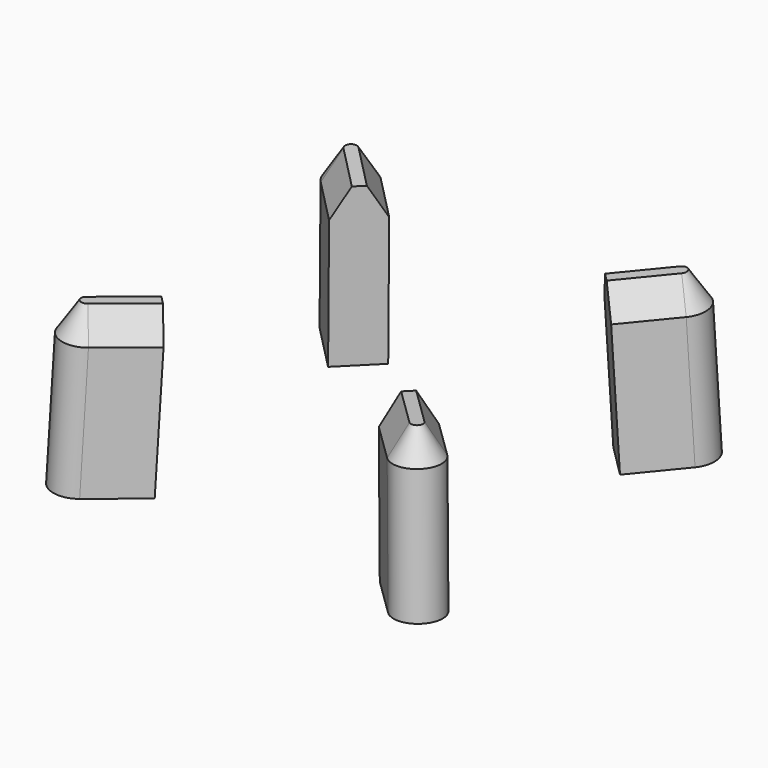
from build123d import *

# Parameters (mm, degrees)
CYLINDER016_R          = 76
CYLINDER016_DEPTH      = 900
CYLINDER015_W          = 160
CYLINDER015_H          = 1100
CYLINDER015_ANGLE      = 180
BOX003_W               = 400
BOX003_H               = 320
BOX003_DEPTH           = 1100
CHAMFER005_SIZE2       = 120
CHAMFER005_SIZE        = 200
CUT001_PITCH_ANGLE     = 3
CUT001_PLACEMENT_ANGLE = -135
ARRAY003003_COUNT      = 4


with BuildPart() as cylinder016:
    # Cylinder016 → Cylinder016 (new body)
    with BuildSketch(Plane.XY):
        Circle(CYLINDER016_R)
    extrude(amount=CYLINDER016_DEPTH)


with BuildPart() as cylinder015:
    # Cylinder015 → Cylinder015 (revolve)
    with BuildSketch(Plane.YZ):
        with Locations((80, 550)):
            Rectangle(CYLINDER015_W, CYLINDER015_H)
    revolve(axis=Axis((0, 0, 0), (0, 0, 1)), revolution_arc=CYLINDER015_ANGLE)


with BuildPart() as array003003:
    # Box003 → Box003 (new body)
    with BuildSketch(Plane(origin=(0, -160, 0), x_dir=(1, 0, 0), z_dir=(0, 0, 1))):
        with Locations((200, 160)):
            Rectangle(BOX003_W, BOX003_H)
    extrude(amount=BOX003_DEPTH)

    # Fusion003003004001004: union Cylinder015
    add(cylinder015.part)

    # Chamfer005
    chamfer005_edges = [array003003.edges().sort_by_distance(p)[0] for p in [
        (200, -160, 1100),
    ]]
    chamfer005_side = array003003.faces().sort_by_distance((200, -160, 550))[0]
    chamfer(chamfer005_edges, length=CHAMFER005_SIZE, length2=CHAMFER005_SIZE2, reference=chamfer005_side)

    # Cut001: cut Cylinder016
    add(cylinder016.part, mode=Mode.SUBTRACT)


with BuildPart() as array003003_1:
    # Cut001 pitch: moved
    add(array003003.part.rotate(Axis((0, 0, 0), (0, 1, 0)), CUT001_PITCH_ANGLE))


with BuildPart() as array003003_2:
    # Cut001 placement: moved
    add(array003003_1.part.moved(Location((1157.916886, 1157.916886, -29875.202856))).rotate(Axis((1157.916886, 1157.916886, -29875.202856), (0, 0, 1)), CUT001_PLACEMENT_ANGLE))

    # Array003003: Array003003 ×4 about axis
    array003003_axis = Axis((0, 0, 1), (0, 0, 1))


with BuildPart() as array003003_3:
    add(array003003_2.part)
    for i in range(1, ARRAY003003_COUNT):
        add(array003003_2.part.rotate(array003003_axis, i * 360 / ARRAY003003_COUNT))


solid = array003003_3.part
